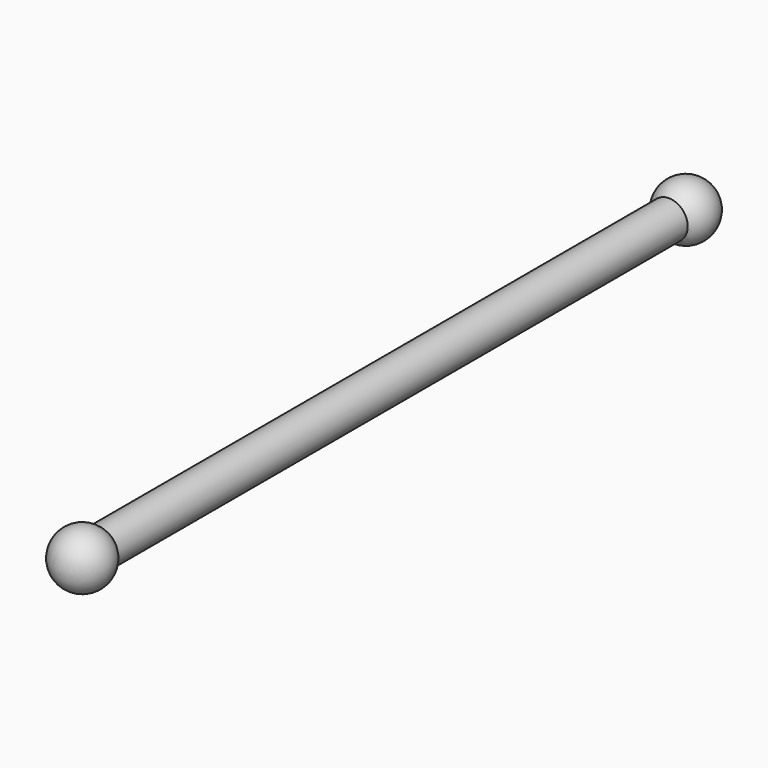
from build123d import *

# Parameters (mm, degrees)
F0_R     = 1
F1_DEPTH = 20


with BuildPart() as f1:
    # F0 (on Front) → F1 (new body, symmetric)
    with BuildSketch(Plane.XZ):
        Circle(F0_R)
    extrude(amount=F1_DEPTH, both=True)

    # F2 (on Top) → F3 (revolve)
    with BuildSketch(Plane.XY):
        with BuildLine():
            Line((1.5, -20), (-1.5, -20))
            ThreePointArc((-1.5, -20), (0, -21.5), (1.5, -20))
        make_face()
    revolve(axis=Axis((0, -20, 0), (1, 0, 0)))

    # F4 (on Top) → F5 (revolve)
    with BuildSketch(Plane.XY):
        with BuildLine():
            Line((-1.5, 20), (1.5, 20))
            ThreePointArc((1.5, 20), (0, 21.5), (-1.5, 20))
        make_face()
    revolve(axis=Axis((0, 20, 0), (1, 0, 0)))


solid = f1.part
